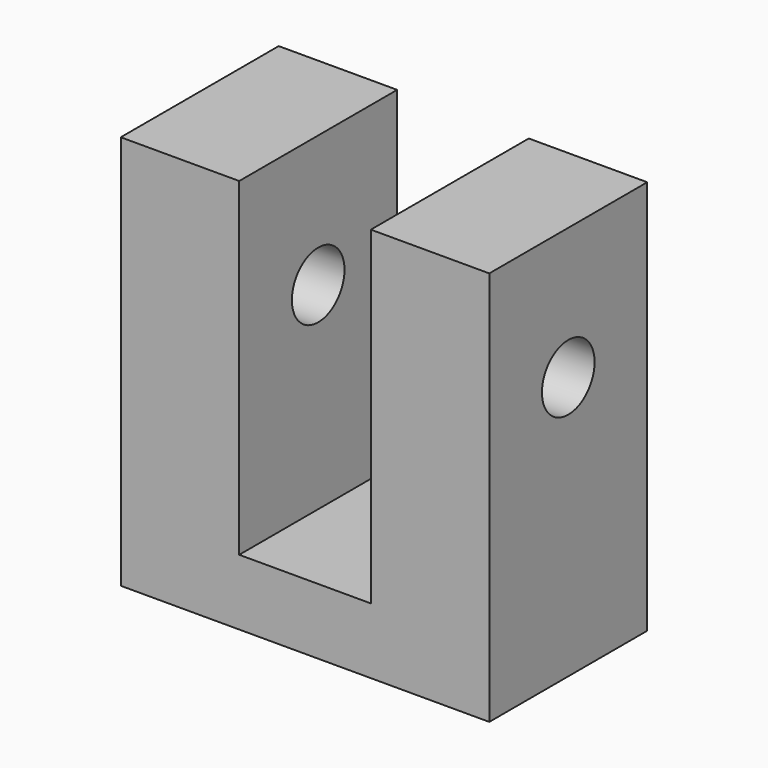
from build123d import *

# Parameters (mm, degrees)
F1_DEPTH = 19.05
F2_R     = 3.175
F3_DEPTH = 35.561
F4_R     = 3.175
F5_DEPTH = 12.7


with BuildPart() as f1:
    # F0 (on Front) → F1 (new body)
    with BuildSketch(Plane.XZ):
        Polygon((-6.35, 18.685161), (-17.78, 18.685161), (-17.78, -19.414839), (17.78, -19.414839), (17.78, 18.685161), (6.35, 18.685161), (6.35, -13.064839), (-6.35, -13.064839), align=None)
    extrude(amount=F1_DEPTH)

    # F2 (on face) → F3 (cut, through all)
    with BuildSketch(Plane.YZ.offset(17.78)):
        with Locations((-9.525, 5.985161)):
            Circle(F2_R)
    extrude(amount=-F3_DEPTH, mode=Mode.SUBTRACT)

    # F4 (on face) → F5 (cut)
    with BuildSketch(Plane(origin=(0, 0, -19.414839), x_dir=(1, 0, 0), z_dir=(0, 0, -1))):
        with Locations((-13.0048, 12.7)):
            Circle(F4_R)
        with Locations((13.0048, 12.7)):
            Circle(F4_R)
    extrude(amount=-F5_DEPTH, mode=Mode.SUBTRACT)


solid = f1.part
